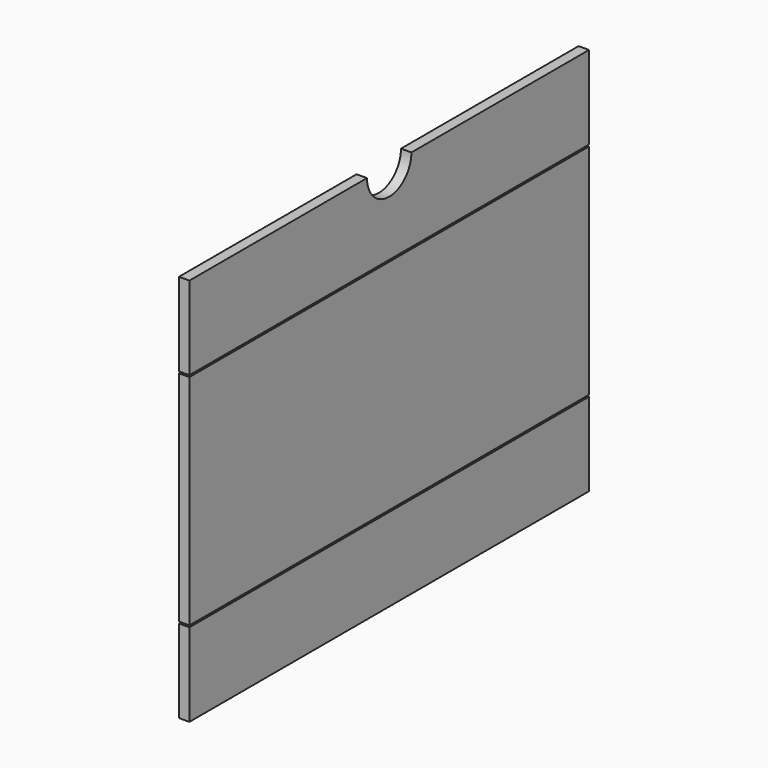
from build123d import *

# Parameters (mm, degrees)
F0_W     = 914.4
F0_H     = 711.2
F1_DEPTH = 19.05
F3_DEPTH = 25.4
F4_W     = 914.4
F4_H     = 3.175
F5_DEPTH = 25.4


with BuildPart() as f1:
    # F0 (on Right) → F1 (new body)
    with BuildSketch(Plane.YZ):
        Rectangle(F0_W, F0_H)
    extrude(amount=F1_DEPTH)

    # F2 (on face) → F3 (cut)
    with BuildSketch(Plane.YZ.offset(19.05)):
        with BuildLine():
            ThreePointArc((-50.8, 355.6), (0, 304.8), (50.8, 355.6))
            Line((50.8, 355.6), (-50.8, 355.6))
        make_face()
    extrude(amount=-F3_DEPTH, mode=Mode.SUBTRACT)

    # F4 (on face) → F5 (cut)
    with BuildSketch(Plane.YZ.offset(19.05)):
        with Locations((0, 201.6125)):
            Rectangle(F4_W, F4_H)
        with Locations((0, -201.6125)):
            Rectangle(F4_W, F4_H)
    extrude(amount=-F5_DEPTH, mode=Mode.SUBTRACT)


solid = f1.part
